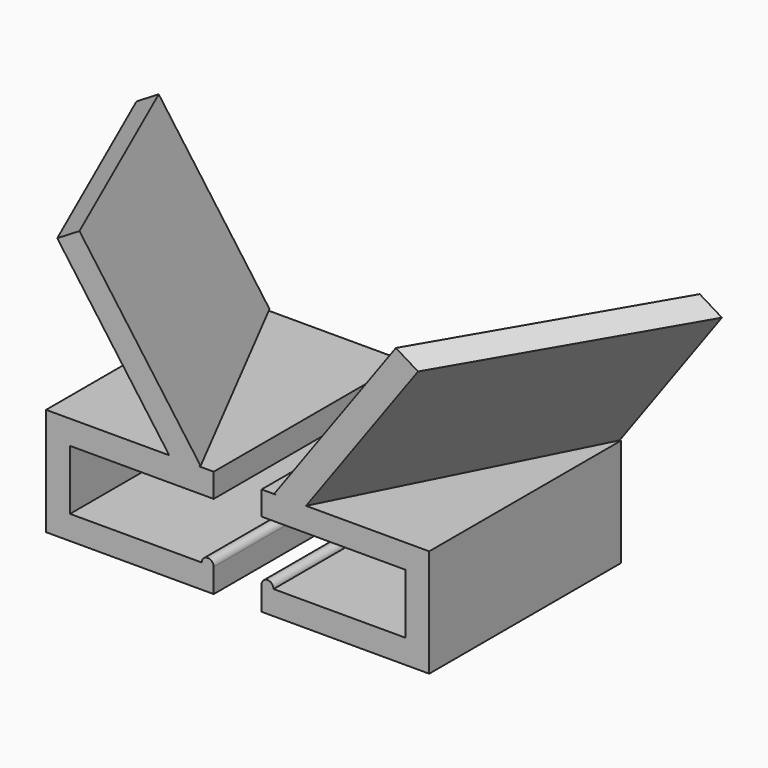
from build123d import *

# Parameters (mm, degrees)
F1_DEPTH  = 20
F6_DEPTH  = 2
F8_DEPTH  = 25
F9_DEPTH  = 25
F10_W     = 12.9626411945
F10_H     = 6.1243779492
F11_DEPTH = 25
F12_DEPTH = 25


with BuildPart() as f1:
    # F0 (on Front) → F1 (new body)
    with BuildSketch(Plane.XZ):
        Polygon((-14, 0), (0, 0), (0, 9), (-14, 9), (-14, 7), (-2, 7), (-2, 2), (-13, 2), (-14, 2), align=None)
        with BuildLine():
            ThreePointArc((-13, 2), (-13.5, 2.5), (-14, 2))
            Line((-14, 2), (-13, 2))
        make_face()
    extrude(amount=F1_DEPTH)

    # F5 (on 3pt) → F6 (join)
    with BuildSketch(Plane(origin=(-5.2031719048, 2.651203998, 3.7666364803), x_dir=(-0.3090421951, -0.9243606592, 0.2237192288), z_dir=(-0.74875913, 0.3815198182, 0.5420354172))):
        Polygon((-1.0051657446, 6.932166405), (27.787854895, -1.1434078915), (30.5616781116, 15.7499015331), (-1.0051657446, 22.4486775696), align=None)
    extrude(amount=-F6_DEPTH)

    # F7 (on face) → F8 (join)
    with BuildSketch(Plane.XZ.offset(20)):
        Polygon((0, 9), (0, 9.8367398605), (-15.273751691, 9.8367398605), (-15.273751691, 6.7799971439), (-2, 6.7799971439), (-2, 7), (-14, 7), (-14, 9), align=None)
        Polygon((0, 6.7799971439), (0, 9), (-14, 9), (-14, 7), (-2, 7), (-2, 6.7799971439), align=None)
    extrude(amount=F8_DEPTH)

    # F9 (cut): a face of the model
    f9_faces = [f1.faces().sort_by_distance(p)[0] for p in [
        (-7.6368758455, -32.5, 6.7799971439),
    ]]
    extrude(f9_faces, amount=-F9_DEPTH, mode=Mode.SUBTRACT)

    # F10 (on face) → F11 (join)
    with BuildSketch(Plane(origin=(0, 0, 0), x_dir=(-1, 0, 0), z_dir=(0, 1, 0))):
        Polygon((7.1151028387, 7), (7.1151028387, 8.1046763808), (0.8471209144, 8.1046763808), (0.7732363719, 8.0623733808), (0.7426127396, 8.1046763808), (0, 8.1046763808), (0, 1.9802984316), (7.1151028387, 1.9802984316), (7.1151028387, 2), (2, 2), (2, 7), align=None)
        with Locations((-6.4813205972, 5.0424874062)):
            Rectangle(F10_W, F10_H)
    extrude(amount=F11_DEPTH)

    # F12 (cut): a face of the model
    f12_faces = [f1.faces().sort_by_distance(p)[0] for p in [
        (2.9237691779, 12.5, 1.9802984316),
    ]]
    extrude(f12_faces, amount=-F12_DEPTH, mode=Mode.SUBTRACT)


with BuildPart() as f14_1:
    # F14: instance of F1
    add(f1.part.mirror(Plane(origin=(-16, -10, 8), x_dir=(0, -1, 0), z_dir=(-1, 0, 0))))


solid = Compound([f1.part, f14_1.part])
